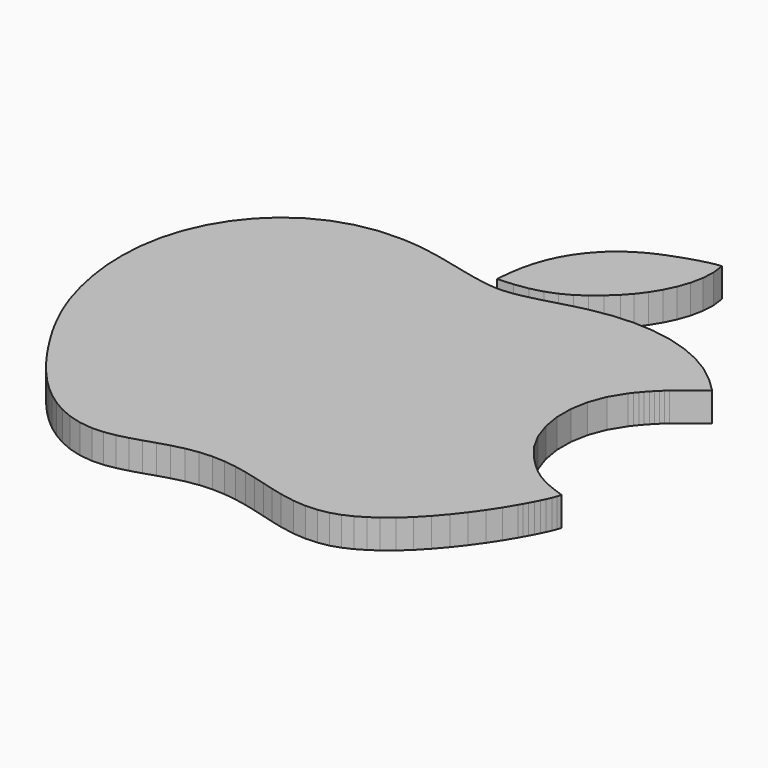
from build123d import *

# Parameters (mm, degrees)
F1_DEPTH = 6.35
F2_DEPTH = 6.35


with BuildPart() as f1:
    # F0 (on Top) → F1 (new body)
    with BuildSketch(Plane.XY):
        Polygon((56.864021, -27.194281), (57.148324, -26.299795), (55.02971, -25.532283), (53.215718, -24.794286), (51.633501, -24.037595), (50.210415, -23.214), (48.873715, -22.27519), (47.550705, -21.172983), (46.168716, -19.859092), (44.655003, -18.285384), (42.213124, -15.164587), (40.354123, -11.71669), (39.097001, -8.041386), (38.461112, -4.2386), (38.465506, -0.408102), (39.129513, 3.350311), (40.472106, 6.936918), (42.512717, 10.251796), (43.099711, 11.005617), (43.687822, 11.726596), (44.279414, 12.417019), (44.87672, 13.078917), (45.482104, 13.714705), (46.097901, 14.326514), (46.726323, 14.916607), (47.369705, 15.487218), (53.111502, 20.039), (50.232818, 22.831095), (46.949411, 25.433198), (43.368214, 27.568119), (39.525905, 29.230498), (35.458806, 30.415001), (31.203417, 31.116016), (26.796213, 31.328309), (22.273717, 31.046395), (17.672304, 30.264913), (16.445205, 29.977309), (15.24221, 29.672204), (14.056716, 29.355009), (12.882321, 29.031006), (11.7126, 28.705404), (10.541, 28.383509), (9.361018, 28.07081), (8.166303, 27.772512), (6.769303, 27.439112), (5.467121, 27.147418), (4.220413, 26.909497), (2.990418, 26.737513), (1.737919, 26.643609), (0.423901, 26.639901), (-0.990676, 26.738504), (-2.544978, 26.951711), (-5.117694, 27.438706), (-7.629093, 27.998217), (-10.1092, 28.592805), (-12.588189, 29.185006), (-15.096185, 29.737507), (-17.663389, 30.212716), (-20.319695, 30.573116), (-23.095382, 30.781396), (-28.262885, 30.645913), (-33.042682, 29.827703), (-37.424081, 28.385516), (-41.39598, 26.378002), (-44.947281, 23.864113), (-48.06729, 20.902295), (-50.74478, 17.551502), (-52.968982, 13.870407), (-54.810787, 9.683217), (-56.098084, 5.328717), (-56.865596, 0.8493), (-57.148298, -3.712693), (-56.980887, -8.314792), (-56.398389, -12.914782), (-55.4355, -17.470095), (-54.126994, -21.938488), (-53.444191, -23.855985), (-52.6764, -25.777292), (-51.833882, -27.690801), (-50.927076, -29.584904), (-49.966194, -31.447892), (-48.961497, -33.268387), (-47.923196, -35.034601), (-46.861781, -36.734902), (-45.988783, -38.081585), (-45.1517, -39.344905), (-44.330976, -40.546884), (-43.507177, -41.709492), (-42.660799, -42.854905), (-41.772383, -44.005094), (-40.822296, -45.182282), (-39.791183, -46.408391), (-38.120193, -48.255301), (-36.237799, -50.104497), (-34.156498, -51.882802), (-31.888786, -53.516886), (-29.447388, -54.933596), (-26.844777, -56.059603), (-24.093678, -56.821705), (-21.206587, -57.146596), (-18.730087, -57.045301), (-16.316477, -56.654294), (-13.932078, -56.053203), (-11.543284, -55.3212), (-9.116492, -54.537788), (-6.618199, -53.78229), (-4.014699, -53.134184), (-1.272388, -52.672894), (1.535913, -52.495196), (4.266819, -52.610893), (6.92691, -52.959102), (9.522816, -53.478887), (12.061215, -54.109493), (14.548815, -54.789883), (16.992219, -55.459198), (19.398107, -56.056581), (22.568306, -56.624982), (25.390424, -56.829096), (27.919909, -56.701995), (30.212208, -56.276697), (32.3231, -55.586401), (34.307907, -54.664), (36.222203, -53.542692), (38.121717, -52.255496), (40.269922, -50.560681), (42.437507, -48.547985), (44.583807, -46.2899), (46.668411, -43.858688), (48.650703, -41.326892), (50.49012, -38.766598), (52.146302, -36.250397), (53.578506, -33.850605), (54.036519, -33.034199), (54.534003, -32.130898), (55.049623, -31.165902), (55.561916, -30.164481), (56.049316, -29.151885), (56.490514, -28.153487), align=None)
    extrude(amount=F1_DEPTH)


with BuildPart() as f2:
    # F0 (on Top) → F2 (new body)
    with BuildSketch(Plane.XY):
        Polygon((-1.284376, 32.312915), (-1.541678, 29.383406), (1.882013, 29.587596), (4.917821, 30.039615), (7.631506, 30.740299), (10.088804, 31.69092), (12.355601, 32.892213), (14.497507, 34.345499), (16.580612, 36.051617), (18.670422, 38.011608), (20.250506, 39.739418), (21.764523, 41.752799), (23.142804, 44.003697), (24.315725, 46.444408), (25.21392, 49.026902), (25.767513, 51.703402), (25.907213, 54.425901), (25.563322, 57.146596), (24.349608, 57.010808), (22.925405, 56.721019), (21.371204, 56.315508), (19.767423, 55.832604), (18.194325, 55.310405), (16.732606, 54.787317), (15.462707, 54.301415), (14.464919, 53.891104), (13.203022, 53.312009), (11.992813, 52.687195), (10.838713, 52.022705), (9.745218, 51.32451), (8.716823, 50.598603), (7.757922, 49.850904), (6.873113, 49.087405), (6.066815, 48.314102), (4.370603, 46.424799), (2.902102, 44.423813), (1.653718, 42.298798), (0.618211, 40.037512), (-0.211785, 37.627611), (-0.843483, 35.056902), align=None)
    extrude(amount=F2_DEPTH)


solid = Compound([f1.part, f2.part])
